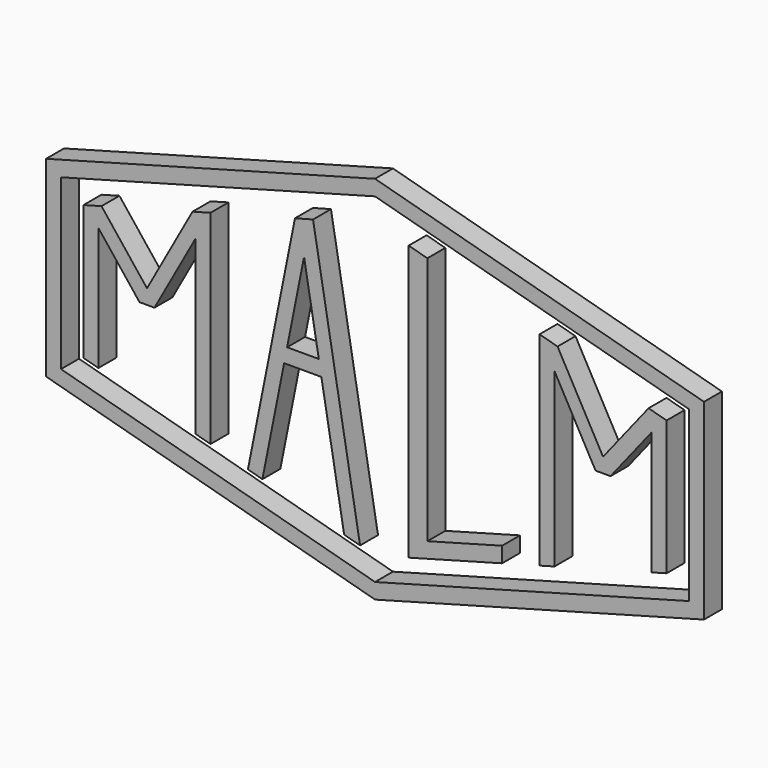
from build123d import *

# Parameters (mm, degrees)
F1_DEPTH = 0.3
F4_DEPTH = 0.3
F6_DEPTH = 0.3


with BuildPart() as f1:
    # F0 (on Front) → F1 (new body)
    with BuildSketch(Plane.XZ):
        Polygon((-3.9, -0.9), (-3.7, -0.9543419613), (-3.7, 0), (-3.9, 0), align=None)
        Polygon((-3.05, 0.1959599852), (-3.6587468421, 0.9655508489), (-3.9, 0.9), (-3.9, 0), (-3.7, 0), (-3.7, 0.6953218411), (-3.15, 0), (-3.05, 0), align=None)
        Polygon((-2.2, 0), (-2.2, 1.3619066714), (-2.4412531579, 1.2963558225), (-3.05, 0.1959599852), (-3.05, 0), (-2.95, 0), (-2.4, 0.9942026285), (-2.4, 0), align=None)
        Polygon((-2.2, -1.3619066714), (-2.2, 0), (-2.4, 0), (-2.4, -1.3075647101), align=None)
    extrude(amount=F1_DEPTH)


with BuildPart() as f1b:
    # F0 (on Front) → F1, piece 2 (new body)
    with BuildSketch(Plane.XZ):
        Polygon((-1.0708318389, 1.6644389552), (-1.7, -1.4977615747), (-1.5065383963, -1.5503269897), (-1.2157824465, -0.0889869615), (-1.1759893875, 0.1110130385), (-0.9493335993, 1.2501855171), (-0.7520927493, 0.1110130385), (-0.7174639545, -0.0889869615), (-0.4129961309, -1.8474531472), (-0.2, -1.9053262848), (-0.8291681611, 1.7284597866), align=None)
        Polygon((-1.1759893875, 0.1110130385), (-1.2157824465, -0.0889869615), (-0.7174639545, -0.0889869615), (-0.7520927493, 0.1110130385), align=None)
    extrude(amount=F1_DEPTH)


with BuildPart() as f2_1:
    # F2: instance of F1
    add(f1.part.mirror(Plane.YZ))


with BuildPart() as f4:
    # F3 (on Front) → F4 (new body)
    with BuildSketch(Plane.XZ):
        Polygon((0.7, -1.5622202083), (0.7, 1.7694713814), (0.45, 1.8373988331), (0.45, -1.63014766), align=None)
        Polygon((1.7, -1.4977615747), (1.7, -1.2905104016), (0.7, -1.5622202083), (0.45, -1.63014766), (0.45, -1.8373988331), align=None)
    extrude(amount=F4_DEPTH)


with BuildPart() as f6:
    # F5 (on Front) → F6 (new body)
    with BuildSketch(Plane.XZ):
        Polygon((4.4, 1.2822730295), (0, 2.477796179), (-4.4, 1.2822730295), (-4.4, -1.2822730295), (0, -2.477796179), (4.4, -1.2822730295), (4.4, 0), align=None)
        Polygon((4.2, -1.1293638177), (0, -2.2705450058), (-4.2, -1.1293638177), (-4.2, 1.1293638177), (0, 2.2705450058), (4.2, 1.1293638177), (4.2, 0), align=None, mode=Mode.SUBTRACT)
    extrude(amount=F6_DEPTH)


solid = Compound([f1.part, f1b.part, f2_1.part, f4.part, f6.part])
